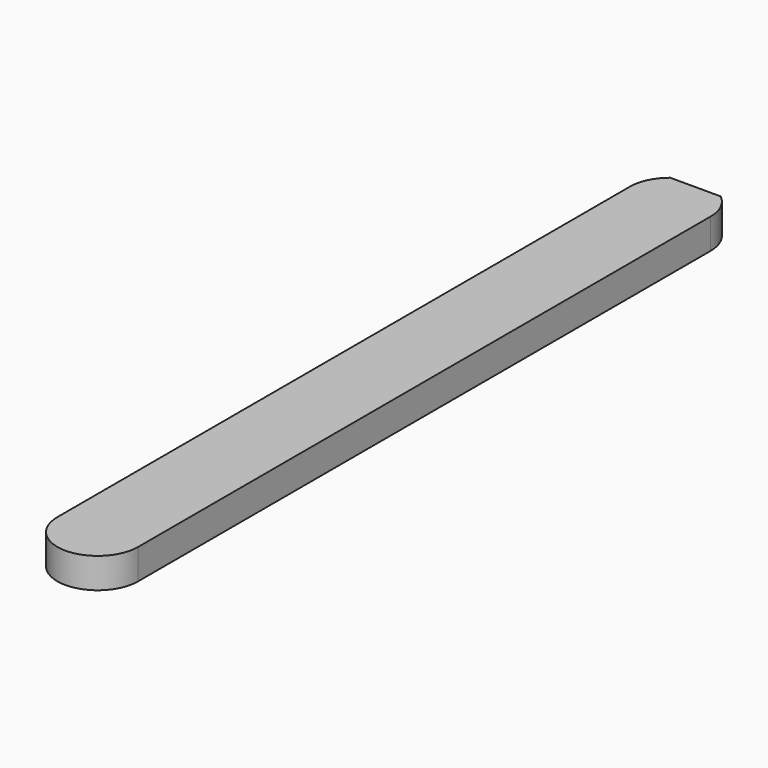
from build123d import *

# Parameters (mm, degrees)
F1_DEPTH = 3
F2_W     = 3.6
F2_H     = 1.2
F3_DEPTH = 60


with BuildPart() as f1:
    # F0 (on Top) → F1 (new body)
    with BuildSketch(Plane.XY):
        with BuildLine():
            Line((4.021343, -70.877558), (4.021343, 0))
            ThreePointArc((4.021343, 0), (3.626894, 1.732051), (2.521343, 3.122499))
            Line((2.521343, 3.122499), (-2.478657, 3.122499))
            ThreePointArc((-2.478657, 3.122499), (-3.584208, 1.732051), (-3.978657, 0))
            Line((-3.978657, 0), (-3.978657, -70.877558))
            ThreePointArc((-3.978657, -70.877558), (0.021343, -74.877558), (4.021343, -70.877558))
        make_face()
    extrude(amount=F1_DEPTH)

    # F2 (on face) → F3 (cut)
    with BuildSketch(Plane(origin=(0, 3.122499, 0), x_dir=(-1, 0, 0), z_dir=(0, 1, 0))):
        with Locations((0, 1.5)):
            Rectangle(F2_W, F2_H)
    extrude(amount=-F3_DEPTH, mode=Mode.SUBTRACT)


solid = f1.part
